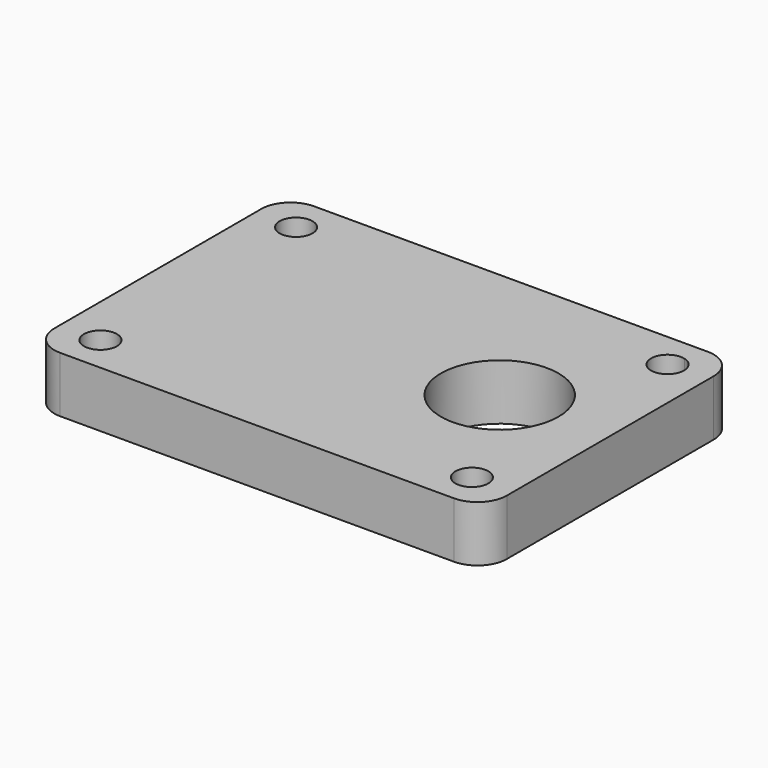
from build123d import *

# Parameters (mm, degrees)
F0_R     = 2.8
F0_R_2   = 10
F1_DEPTH = 9.5


with BuildPart() as f1:
    # F0 (on Top) → F1 (new body)
    with BuildSketch(Plane.XY):
        with BuildLine():
            ThreePointArc((-31.830516, -7.031895), (-36.610415, -5.051996), (-34.630516, -9.831895))
            ThreePointArc((-34.630516, -9.831895), (-32.650617, -9.011794), (-31.830516, -7.031895))
        make_face()
        with BuildLine():
            ThreePointArc((31.369484, -7.031895), (26.355889, -5.317252), (29.269484, -9.742983))
            ThreePointArc((29.269484, -9.742983), (30.783078, -8.746538), (31.369484, -7.031895))
        make_face()
        with BuildLine():
            ThreePointArc((31.369484, 34.568105), (30.783078, 36.282748), (29.269484, 37.279193))
            ThreePointArc((29.269484, 37.279193), (26.355889, 32.853462), (31.369484, 34.568105))
        make_face()
        with BuildLine():
            Line((29.269484, 40.768105), (-36.530516, 40.768105))
            ThreePointArc((-36.530516, 40.768105), (-40.06605, 39.303639), (-41.530516, 35.768105))
            Line((-41.530516, 35.768105), (-41.530516, -8.231895))
            ThreePointArc((-41.530516, -8.231895), (-40.06605, -11.767429), (-36.530516, -13.231895))
            Line((-36.530516, -13.231895), (-34.630516, -13.231895))
            Line((-34.630516, -13.231895), (29.269484, -13.231895))
            Line((29.269484, -13.231895), (30.469484, -13.231895))
            ThreePointArc((30.469484, -13.231895), (34.005017, -11.767429), (35.469484, -8.231895))
            Line((35.469484, -8.231895), (35.469484, 35.768105))
            ThreePointArc((35.469484, 35.768105), (34.005017, 39.303639), (30.469484, 40.768105))
            Line((30.469484, 40.768105), (29.269484, 40.768105))
        make_face()
        with BuildLine():
            ThreePointArc((-31.830516, -7.031895), (-32.650617, -9.011794), (-34.630516, -9.831895))
            ThreePointArc((-34.630516, -9.831895), (-36.610415, -5.051996), (-31.830516, -7.031895))
        make_face(mode=Mode.SUBTRACT)
        with BuildLine():
            ThreePointArc((31.369484, -7.031895), (30.783078, -8.746538), (29.269484, -9.742983))
            ThreePointArc((29.269484, -9.742983), (26.355889, -5.317252), (31.369484, -7.031895))
        make_face(mode=Mode.SUBTRACT)
        with Locations((-34.630516, 34.568105)):
            Circle(F0_R, mode=Mode.SUBTRACT)
        with Locations((16.653322, 13.768105)):
            Circle(F0_R_2, mode=Mode.SUBTRACT)
        with BuildLine():
            ThreePointArc((31.369484, 34.568105), (26.355889, 32.853462), (29.269484, 37.279193))
            ThreePointArc((29.269484, 37.279193), (30.783078, 36.282748), (31.369484, 34.568105))
        make_face(mode=Mode.SUBTRACT)
    extrude(amount=F1_DEPTH)


solid = f1.part
